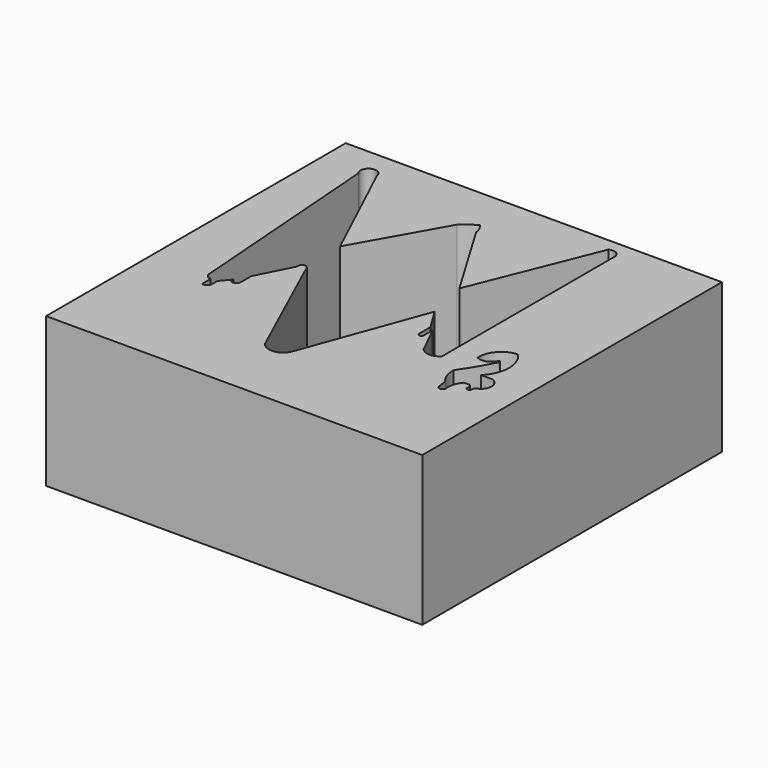
from build123d import *

# Parameters (mm, degrees)
F0_W     = 63.927295
F0_H     = 63.647889
F1_DEPTH = 25.4


with BuildPart() as f1:
    # F0 (on Top) → F1 (new body)
    with BuildSketch(Plane.XY):
        with Locations((15.983245, -0.167414)):
            Rectangle(F0_W, F0_H)
        with BuildLine():
            ThreePointArc((36.189057, -5.532134), (37.097248, -2.787721), (39.666243, -1.462246))
            Line((39.666243, -1.462246), (39.804541, -1.462246))
            ThreePointArc((39.804541, -1.462246), (41.305372, -5.34299), (39.666243, -9.167375))
            Line((39.666243, -9.167375), (41.681431, -9.167375))
            ThreePointArc((41.681431, -9.167375), (42.829035, -10.846698), (41.681431, -12.52602))
            ThreePointArc((41.681431, -12.52602), (41.321165, -12.898237), (41.286293, -13.415074))
            ThreePointArc((41.286293, -13.415074), (40.920794, -13.55561), (40.555295, -13.415074))
            Line((40.555295, -13.415074), (40.555295, -12.763102))
            ThreePointArc((40.555295, -12.763102), (40.334448, -12.343882), (39.86381, -12.28894))
            Line((39.86381, -12.28894), (39.290864, -12.28894))
            ThreePointArc((39.290864, -12.28894), (38.535565, -13.633257), (38.461082, -15.173424))
            ThreePointArc((38.461082, -15.173424), (37.907893, -15.642733), (37.354704, -15.173424))
            Line((37.354704, -15.173424), (37.098495, -13.622328))
            ThreePointArc((37.098495, -13.622328), (36.218295, -12.084662), (35.951976, -10.333022))
            ThreePointArc((35.951976, -10.333022), (37.705646, -7.629097), (39.25135, -4.801135))
            ThreePointArc((39.25135, -4.801135), (39.063662, -4.490255), (38.875975, -4.801135))
            ThreePointArc((38.875975, -4.801135), (38.398966, -5.162595), (37.962817, -5.57243))
            ThreePointArc((37.962817, -5.57243), (37.103653, -5.778697), (36.244489, -5.57243))
            Line((36.244489, -5.57243), (36.189057, -5.532134))
        make_face(mode=Mode.SUBTRACT)
        with BuildLine():
            ThreePointArc((-9.269758, 25.940487), (-8.772298, 27.996649), (-6.920274, 26.974263))
            Line((-6.920274, 26.974263), (1.962891, 8.030645))
            Line((1.962891, 8.030645), (10.192872, 22.620169))
            ThreePointArc((10.192872, 22.620169), (11.346698, 23.591598), (12.651651, 24.347959))
            ThreePointArc((12.651651, 24.347959), (13.255166, 23.476898), (13.532161, 22.454035))
            Line((13.532161, 22.454035), (21.868938, 8.486702))
            Line((21.868938, 8.486702), (30.34257, 29.558696))
            ThreePointArc((30.34257, 29.558696), (31.583529, 29.562058), (32.267133, 28.526356))
            Line((32.267133, 28.526356), (32.267133, -8.17261))
            ThreePointArc((32.267133, -8.17261), (30.692977, -8.87826), (29.118821, -8.17261))
            Line((29.118821, -8.17261), (26.628367, -3.144711))
            Line((26.628367, -3.144711), (26.628367, -5.0243))
            ThreePointArc((26.628367, -5.0243), (26.228955, -5.423712), (25.829542, -5.0243))
            Line((25.829542, -5.0243), (25.829542, -2.627824))
            Line((25.829542, -2.627824), (23.480058, 1.225332))
            Line((23.480058, 1.225332), (15.914716, -19.450142))
            ThreePointArc((15.914716, -19.450142), (13.994164, -21.026124), (11.68564, -20.107998))
            Line((11.68564, -20.107998), (2.287697, 0.567475))
            Line((2.287697, 0.567475), (2.184237, 0.64113))
            ThreePointArc((2.184237, 0.64113), (1.399761, 0.756136), (1.161248, 0))
            Line((1.161248, 0), (-1.893084, -6.012518))
            Line((-1.893084, -6.012518), (-1.893084, -8.221034))
            ThreePointArc((-1.893084, -8.221034), (-2.315182, -8.904003), (-3.114816, -8.831901))
            Line((-3.114816, -8.831901), (-3.114816, -8.221034))
            Line((-3.114816, -8.221034), (-4.524508, -9.912664))
            Line((-4.524508, -9.912664), (-4.524508, -11.087144))
            ThreePointArc((-4.524508, -11.087144), (-4.868156, -11.745203), (-5.60456, -11.839243))
            Line((-5.60456, -11.839243), (-5.60456, -10.006644))
            ThreePointArc((-5.60456, -10.006644), (-6.277518, -9.740955), (-6.638334, -9.113839))
            Line((-6.638334, -9.113839), (-9.269758, 25.940487))
        make_face(mode=Mode.SUBTRACT)
    extrude(amount=F1_DEPTH)


solid = f1.part
